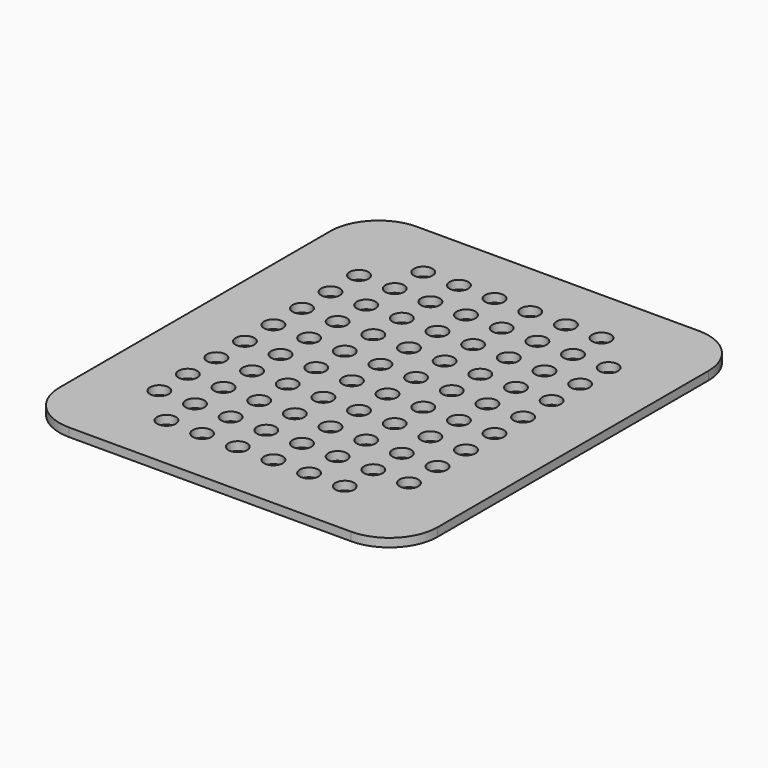
from build123d import *

# Parameters (mm, degrees)
F1_DEPTH      = 1.5
F3_R          = 1.65
F4_DEPTH      = 12.2
F4_DEPTH_BACK = 25


with BuildPart() as f1:
    # F0 (on Top) → F1 (new body)
    with BuildSketch(Plane.XY):
        with BuildLine():
            ThreePointArc((33.4, 29.9), (30.910408, 35.910408), (24.9, 38.4))
            Line((24.9, 38.4), (-24.9, 38.4))
            ThreePointArc((-24.9, 38.4), (-30.910408, 35.910408), (-33.4, 29.9))
            Line((-33.4, 29.9), (-33.4, -29.9))
            ThreePointArc((-33.4, -29.9), (-30.910408, -35.910408), (-24.9, -38.4))
            Line((-24.9, -38.4), (24.9, -38.4))
            ThreePointArc((24.9, -38.4), (30.910408, -35.910408), (33.4, -29.9))
            Line((33.4, -29.9), (33.4, 29.9))
        make_face()
    extrude(amount=F1_DEPTH)

    # F3 (on face) → F4 (cut, two sides)
    with BuildSketch(Plane.XY.offset(1.5)) as f4_sk:
        with Locations((-22.05, 22.05)):
            Circle(F3_R)
        with Locations((-22.05, 15.75)):
            Circle(F3_R)
        with Locations((-22.05, 9.45)):
            Circle(F3_R)
        with Locations((-22.05, 3.15)):
            Circle(F3_R)
        with Locations((-22.05, -3.15)):
            Circle(F3_R)
        with Locations((-22.05, -9.45)):
            Circle(F3_R)
        with Locations((-22.05, -15.75)):
            Circle(F3_R)
        with Locations((-22.05, -22.05)):
            Circle(F3_R)
        with Locations((-15.75, 28.35)):
            Circle(F3_R)
        with Locations((-15.75, 22.05)):
            Circle(F3_R)
        with Locations((-15.75, 15.75)):
            Circle(F3_R)
        with Locations((-15.75, 9.45)):
            Circle(F3_R)
        with Locations((-15.75, 3.15)):
            Circle(F3_R)
        with Locations((-15.75, -3.15)):
            Circle(F3_R)
        with Locations((-15.75, -9.45)):
            Circle(F3_R)
        with Locations((-15.75, -15.75)):
            Circle(F3_R)
        with Locations((-15.75, -22.05)):
            Circle(F3_R)
        with Locations((-15.75, -28.35)):
            Circle(F3_R)
        with Locations((-9.45, 28.35)):
            Circle(F3_R)
        with Locations((-9.45, 22.05)):
            Circle(F3_R)
        with Locations((-9.45, 15.75)):
            Circle(F3_R)
        with Locations((-9.45, 9.45)):
            Circle(F3_R)
        with Locations((-9.45, 3.15)):
            Circle(F3_R)
        with Locations((-9.45, -3.15)):
            Circle(F3_R)
        with Locations((-9.45, -9.45)):
            Circle(F3_R)
        with Locations((-9.45, -15.75)):
            Circle(F3_R)
        with Locations((-9.45, -22.05)):
            Circle(F3_R)
        with Locations((-9.45, -28.35)):
            Circle(F3_R)
        with Locations((-3.15, 28.35)):
            Circle(F3_R)
        with Locations((-3.15, 22.05)):
            Circle(F3_R)
        with Locations((-3.15, 15.75)):
            Circle(F3_R)
        with Locations((-3.15, 9.45)):
            Circle(F3_R)
        with Locations((-3.15, 3.15)):
            Circle(F3_R)
        with Locations((-3.15, -3.15)):
            Circle(F3_R)
        with Locations((-3.15, -9.45)):
            Circle(F3_R)
        with Locations((-3.15, -15.75)):
            Circle(F3_R)
        with Locations((-3.15, -22.05)):
            Circle(F3_R)
        with Locations((-3.15, -28.35)):
            Circle(F3_R)
        with Locations((3.15, 28.35)):
            Circle(F3_R)
        with Locations((3.15, 22.05)):
            Circle(F3_R)
        with Locations((3.15, 15.75)):
            Circle(F3_R)
        with Locations((3.15, 9.45)):
            Circle(F3_R)
        with Locations((3.15, 3.15)):
            Circle(F3_R)
        with Locations((3.15, -3.15)):
            Circle(F3_R)
        with Locations((3.15, -9.45)):
            Circle(F3_R)
        with Locations((3.15, -15.75)):
            Circle(F3_R)
        with Locations((3.15, -22.05)):
            Circle(F3_R)
        with Locations((3.15, -28.35)):
            Circle(F3_R)
        with Locations((9.45, 28.35)):
            Circle(F3_R)
        with Locations((9.45, 22.05)):
            Circle(F3_R)
        with Locations((9.45, 15.75)):
            Circle(F3_R)
        with Locations((9.45, 9.45)):
            Circle(F3_R)
        with Locations((9.45, 3.15)):
            Circle(F3_R)
        with Locations((9.45, -3.15)):
            Circle(F3_R)
        with Locations((9.45, -9.45)):
            Circle(F3_R)
        with Locations((9.45, -15.75)):
            Circle(F3_R)
        with Locations((9.45, -22.05)):
            Circle(F3_R)
        with Locations((9.45, -28.35)):
            Circle(F3_R)
        with Locations((15.75, 28.35)):
            Circle(F3_R)
        with Locations((15.75, 22.05)):
            Circle(F3_R)
        with Locations((15.75, 15.75)):
            Circle(F3_R)
        with Locations((15.75, 9.45)):
            Circle(F3_R)
        with Locations((15.75, 3.15)):
            Circle(F3_R)
        with Locations((15.75, -3.15)):
            Circle(F3_R)
        with Locations((15.75, -9.45)):
            Circle(F3_R)
        with Locations((15.75, -15.75)):
            Circle(F3_R)
        with Locations((15.75, -22.05)):
            Circle(F3_R)
        with Locations((15.75, -28.35)):
            Circle(F3_R)
        with Locations((22.05, 22.05)):
            Circle(F3_R)
        with Locations((22.05, 15.75)):
            Circle(F3_R)
        with Locations((22.05, 9.45)):
            Circle(F3_R)
        with Locations((22.05, 3.15)):
            Circle(F3_R)
        with Locations((22.05, -3.15)):
            Circle(F3_R)
        with Locations((22.05, -9.45)):
            Circle(F3_R)
        with Locations((22.05, -15.75)):
            Circle(F3_R)
        with Locations((22.05, -22.05)):
            Circle(F3_R)
    extrude(amount=-F4_DEPTH, mode=Mode.SUBTRACT)
    extrude(f4_sk.sketch, amount=-F4_DEPTH_BACK, mode=Mode.SUBTRACT)


solid = f1.part
